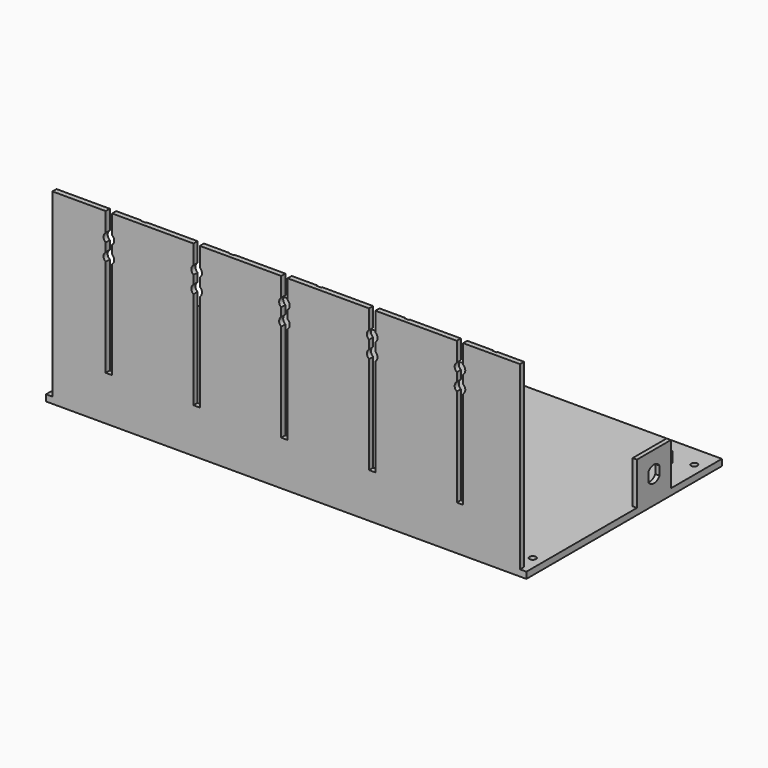
from build123d import *

# Parameters (mm, degrees)
SKETCH_W        = 226
SKETCH_H        = 115
PAD_DEPTH       = 3
PAD001_DEPTH    = 85
SKETCH002_R     = 3
PAD002_DEPTH    = 4
SKETCH003_R     = 1.75
PAD003_DEPTH    = 2
SKETCH004_R     = 1.5
POCKET_DEPTH    = 3.001
SKETCH005_W     = 3
SKETCH005_H     = 10.331698
SKETCH005_H_2   = 9.573412
SKETCH005_H_3   = 9.002111
SKETCH005_H_4   = 9.234924
SKETCH005_H_5   = 9.778156
POCKET001_DEPTH = 67
SKETCH006_R     = 2.5
POCKET002_DEPTH = 5
SKETCH008_W     = 218.676559
SKETCH008_H     = 5.389001
POCKET003_DEPTH = 10
POCKET004_DEPTH = 200
SKETCH010_W     = 2
SKETCH010_H     = 20
PAD004_DEPTH    = 20
POCKET005_DEPTH = 5
SKETCH012_W     = 3
SKETCH012_H     = 3
POCKET006_DEPTH = 85


with BuildPart() as part:
    # Sketch → Pad (new body)
    with BuildSketch(Plane.XY):
        with Locations((113, 57.5)):
            Rectangle(SKETCH_W, SKETCH_H)
    extrude(amount=PAD_DEPTH)

    # Sketch001 (on Face6 of Pad) → Pad001 (join)
    with BuildSketch(Plane.XY.offset(3)):
        Polygon((0, 0), (0, 2.4), (41.05, 2.4), (41.05, 7.4), (43.05, 7.4), (43.05, 2), (45.35, 2), (45.35, 7.4), (47.35, 7.4), (47.35, 2.4), (82.35, 2.4), (82.35, 7.4), (84.35, 7.4), (84.35, 2), (86.65, 2), (86.65, 7.4), (88.65, 7.4), (88.65, 2.4), (123.65, 2.4), (123.65, 7.4), (125.65, 7.4), (125.65, 2), (127.95, 2), (127.95, 7.4), (129.95, 7.4), (129.95, 2.4), (164.95, 2.4), (164.95, 7.4), (166.95, 7.4), (166.95, 2), (169.25, 2), (169.25, 7.4), (171.25, 7.4), (171.25, 2.4), (206.25, 2.4), (206.25, 7.4), (208.25, 7.4), (208.25, 2), (210.55, 2), (210.55, 7.4), (212.55, 7.4), (212.55, 2.4), (226, 2.4), (226, 0), align=None)
    extrude(amount=PAD001_DEPTH)

    # Sketch002 (on Face3 of Pad001) → Pad002 (join)
    with BuildSketch(Plane.XY.offset(3)):
        with Locations((17, 10)):
            Circle(SKETCH002_R)
        with Locations((17, 100)):
            Circle(SKETCH002_R)
        with Locations((211, 100)):
            Circle(SKETCH002_R)
        with Locations((211, 10)):
            Circle(SKETCH002_R)
    extrude(amount=PAD002_DEPTH)

    # Sketch003 (on Face54 of Pad002) → Pad003 (join)
    with BuildSketch(Plane.XY.offset(7)):
        with Locations((17, 100)):
            Circle(SKETCH003_R)
        with Locations((211, 100)):
            Circle(SKETCH003_R)
        with Locations((17, 10)):
            Circle(SKETCH003_R)
        with Locations((211, 10)):
            Circle(SKETCH003_R)
    extrude(amount=PAD003_DEPTH)

    # Sketch004 (on Face7 of Pad003) → Pocket (cut, through all)
    with BuildSketch(Plane.XY.offset(3)):
        with Locations((5, 105)):
            Circle(SKETCH004_R)
        with Locations((221, 105)):
            Circle(SKETCH004_R)
        with Locations((221, 10)):
            Circle(SKETCH004_R)
        with Locations((5, 10)):
            Circle(SKETCH004_R)
    extrude(amount=-POCKET_DEPTH, mode=Mode.SUBTRACT)

    # Sketch005 (on Face10 of Pocket) → Pocket001 (cut)
    with BuildSketch(Plane.XY.offset(88)):
        with Locations((29.55, 1.058323)):
            Rectangle(SKETCH005_W, SKETCH005_H)
        with Locations((70.85, 1.24642)):
            Rectangle(SKETCH005_W, SKETCH005_H_2)
        with Locations((112.15, 0.827586)):
            Rectangle(SKETCH005_W, SKETCH005_H_3)
        with Locations((153.45, 1.334431)):
            Rectangle(SKETCH005_W, SKETCH005_H_4)
        with Locations((194.75, 1.451644)):
            Rectangle(SKETCH005_W, SKETCH005_H_5)
    extrude(amount=-POCKET001_DEPTH, mode=Mode.SUBTRACT)

    # Sketch006 (on Face2 of Pocket001) → Pocket002 (cut)
    with BuildSketch(Plane.XZ):
        with Locations((29.55, 77)):
            Circle(SKETCH006_R)
        with Locations((29.55, 69)):
            Circle(SKETCH006_R)
        with Locations((70.85, 77)):
            Circle(SKETCH006_R)
        with Locations((70.85, 69)):
            Circle(SKETCH006_R)
        with Locations((112.15, 77)):
            Circle(SKETCH006_R)
        with Locations((112.15, 69)):
            Circle(SKETCH006_R)
        with Locations((153.45, 77)):
            Circle(SKETCH006_R)
        with Locations((153.45, 69)):
            Circle(SKETCH006_R)
        with Locations((194.75, 77)):
            Circle(SKETCH006_R)
        with Locations((194.75, 69)):
            Circle(SKETCH006_R)
    extrude(amount=-POCKET002_DEPTH, mode=Mode.SUBTRACT)

    # Sketch008 (on Face60 of Pocket002) → Pocket003 (cut)
    with BuildSketch(Plane.XY.offset(88)):
        with Locations((109.338279, 5.0945)):
            Rectangle(SKETCH008_W, SKETCH008_H)
    extrude(amount=-POCKET003_DEPTH, mode=Mode.SUBTRACT)

    # Sketch009 (on Face88 of Pocket003) → Pocket004 (cut)
    with BuildSketch(Plane.YZ.offset(212.55)):
        Polygon((7.4, 3), (2.4, 3), (2.4, 40.5), (7.4, 54.974999), align=None)
    extrude(amount=-POCKET004_DEPTH, mode=Mode.SUBTRACT)

    # Sketch010 (on Face132 of Pocket004) → Pad004 (join)
    with BuildSketch(Plane.XY.offset(3)):
        with Locations((225, 75)):
            Rectangle(SKETCH010_W, SKETCH010_H)
    extrude(amount=PAD004_DEPTH)

    # Sketch011 (on Face154 of Pad004) → Pocket005 (cut)
    with BuildSketch(Plane.YZ.offset(226)):
        with BuildLine():
            ThreePointArc((78.3, 15.085192), (75, 16.906731), (71.7, 15.085192))
            Line((71.7, 15.085192), (71.7, 10.92827))
            ThreePointArc((71.7, 10.92827), (75, 9.106731), (78.3, 10.92827))
            Line((78.3, 15.085192), (78.3, 10.92827))
        make_face()
    extrude(amount=-POCKET005_DEPTH, mode=Mode.SUBTRACT)

    # Sketch012 (on Face80 of Pocket005) → Pocket006 (cut)
    with BuildSketch(Plane.XY.offset(88)):
        with Locations((1.5, 1.5)):
            Rectangle(SKETCH012_W, SKETCH012_H)
        with Locations((224.5, 1.5)):
            Rectangle(SKETCH012_W, SKETCH012_H)
    extrude(amount=-POCKET006_DEPTH, mode=Mode.SUBTRACT)


solid = part.part
